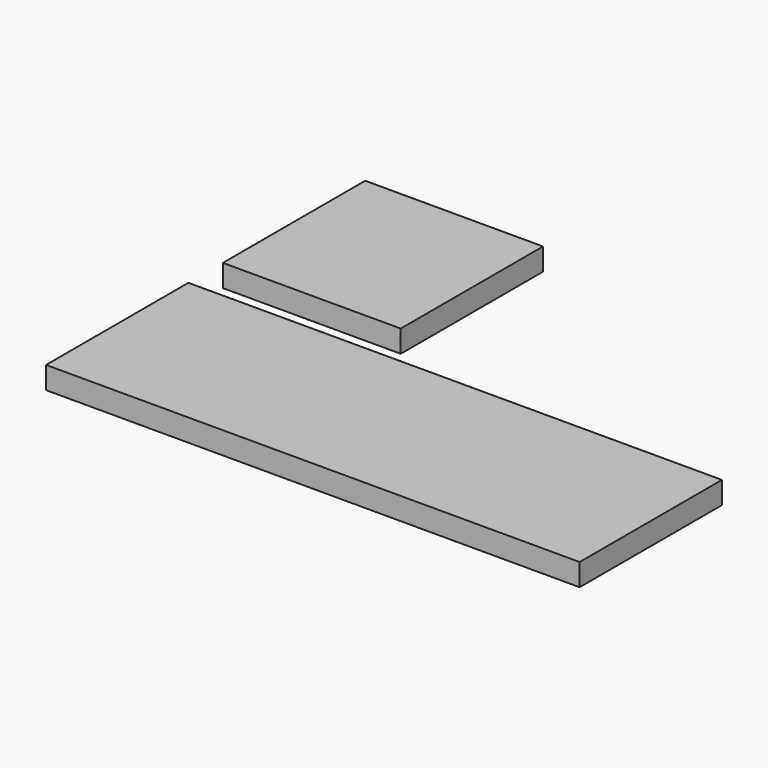
from build123d import *

# Parameters (mm, degrees)
F0_W     = 60
F0_H     = 20
F0_W_2   = 20
F1_DEPTH = 2.5


with BuildPart() as f1:
    # F0 (on Top) → F1 (new body)
    with BuildSketch(Plane.XY):
        with Locations((30, -10)):
            Rectangle(F0_W, F0_H)
        with Locations((10, 14.852052)):
            Rectangle(F0_W_2, F0_H)
    extrude(amount=F1_DEPTH)


solid = f1.part
